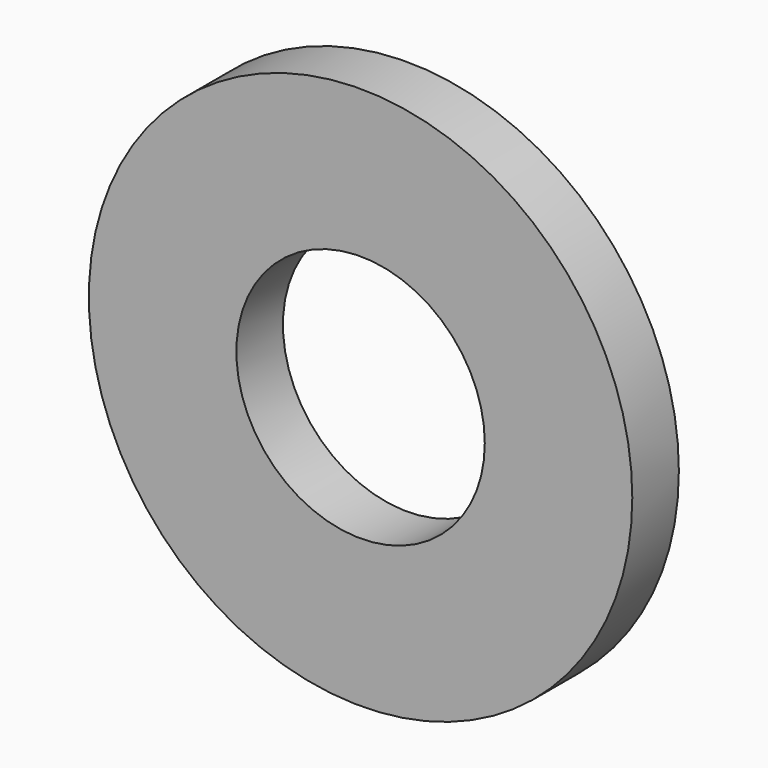
from build123d import *

# Parameters (mm, degrees)
CYLINDER002_R     = 1.6
CYLINDER002_DEPTH = 0.75
CYLINDER001_R     = 3.5
CYLINDER001_DEPTH = 0.75


with BuildPart() as cylinder002:
    # Cylinder002 → Cylinder002 (new body)
    with BuildSketch(Plane(origin=(62.25, 62.325, 15.8), x_dir=(1, 0, 0), z_dir=(0, 1, 0))):
        Circle(CYLINDER002_R)
    extrude(amount=CYLINDER002_DEPTH)


with BuildPart() as cut001003:
    # Cylinder001 → Cylinder001 (new body)
    with BuildSketch(Plane(origin=(62.25, 62.325, 15.8), x_dir=(1, 0, 0), z_dir=(0, 1, 0))):
        Circle(CYLINDER001_R)
    extrude(amount=CYLINDER001_DEPTH)

    # Cut001003: cut Cylinder002
    add(cylinder002.part, mode=Mode.SUBTRACT)


solid = cut001003.part
